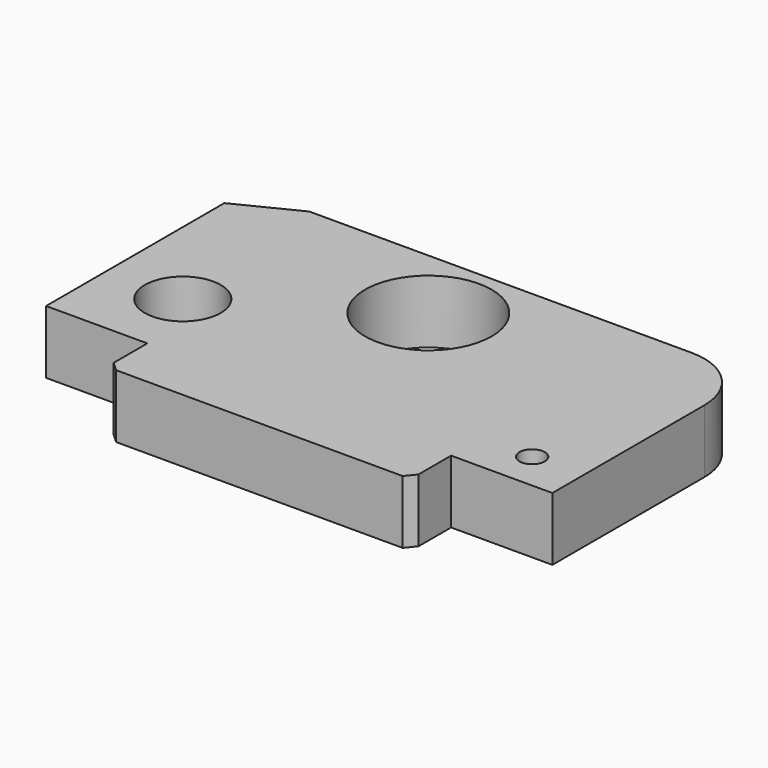
from build123d import *

# Parameters (mm, degrees)
F0_R     = 15
F0_R_2   = 5
F0_R_3   = 25
F1_DEPTH = 25


with BuildPart() as f1:
    # F0 (on Top) → F1 (new body)
    with BuildSketch(Plane.XY):
        with BuildLine():
            Line((-88.420057, 64.87994), (-112.420057, 52.87994))
            Line((-112.420057, 52.87994), (-112.420057, -35.12006))
            Line((-112.420057, -35.12006), (-72.420057, -35.12006))
            Line((-72.420057, -35.12006), (-72.420057, -51.749657))
            Line((-72.420057, -51.749657), (-68.726768, -55.12006))
            Line((-68.726768, -55.12006), (44.457981, -55.12006))
            Line((44.457981, -55.12006), (47.579943, -51.214506))
            Line((47.579943, -51.214506), (47.579943, -35.12006))
            Line((47.579943, -35.12006), (87.579943, -35.12006))
            Line((87.579943, -35.12006), (87.579943, 39.87994))
            ThreePointArc((87.579943, 39.87994), (80.257612, 57.55761), (62.579943, 64.87994))
            Line((62.579943, 64.87994), (-88.420057, 64.87994))
        make_face()
        with Locations((-82.420057, -5.12006)):
            Circle(F0_R, mode=Mode.SUBTRACT)
        with Locations((67.579943, -20.12006)):
            Circle(F0_R_2, mode=Mode.SUBTRACT)
        with Locations((-17.420057, 34.87994)):
            Circle(F0_R_3, mode=Mode.SUBTRACT)
    extrude(amount=F1_DEPTH)


solid = f1.part
